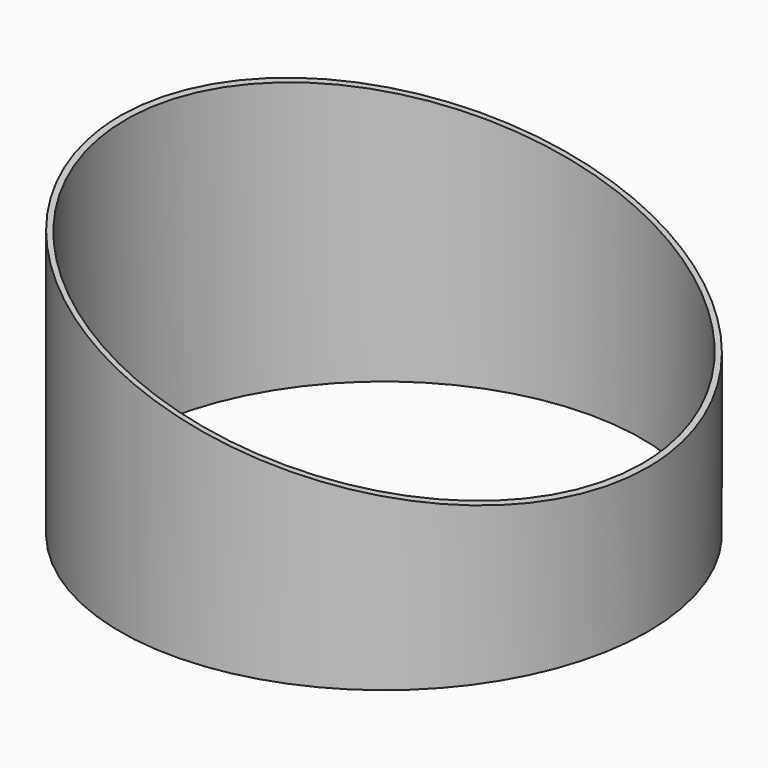
from build123d import *

# Parameters (mm, degrees)
F0_R     = 233.5
F0_R_2   = 228.5
F1_DEPTH = 250
F3_DEPTH = 237.5


with BuildPart() as f1:
    # F0 (on Top) → F1 (new body)
    with BuildSketch(Plane.XY):
        Circle(F0_R)
        Circle(F0_R_2, mode=Mode.SUBTRACT)
    extrude(amount=F1_DEPTH)

    # F2 (on Front) → F3 (cut, symmetric)
    with BuildSketch(Plane.XZ):
        Polygon((233.5, 128), (233.5, 250), (-233.5, 250), align=None)
    extrude(amount=F3_DEPTH, both=True, mode=Mode.SUBTRACT)


solid = f1.part
